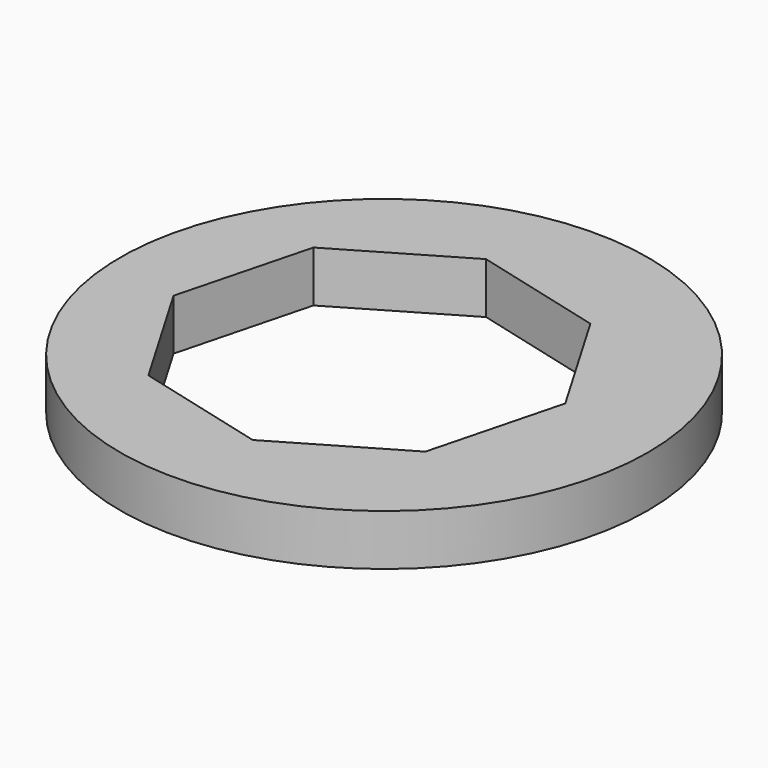
from build123d import *

# Parameters (mm, degrees)
F0_R     = 36.211569
F1_DEPTH = 7


with BuildPart() as f1:
    # F0 (on Top) → F1 (new body)
    with BuildSketch(Plane.XY):
        with Locations((2.013676, 0)):
            Circle(F0_R)
        Polygon((3.347939, -24.192038), (-14.739004, -19.473705), (-24.192038, -3.347939), (-19.473705, 14.739004), (-3.347939, 24.192038), (14.739004, 19.473705), (24.192038, 3.347939), (19.473705, -14.739004), align=None, mode=Mode.SUBTRACT)
    extrude(amount=F1_DEPTH)


solid = f1.part
